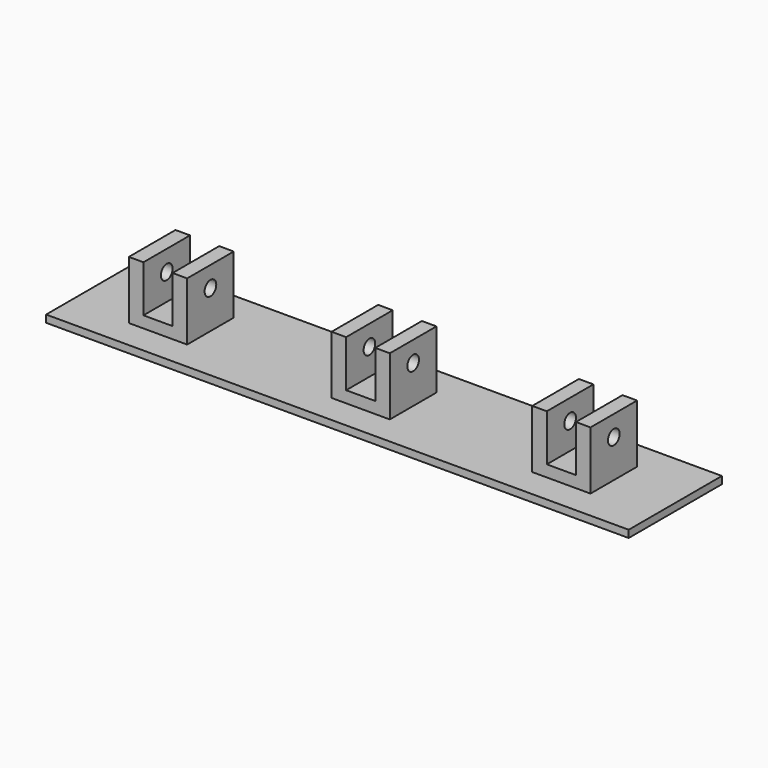
from build123d import *

# Parameters (mm, degrees)
F0_W     = 254
F0_H     = 50.8
F1_DEPTH = 3.175
F2_W     = 25.4
F2_H     = 25.4
F3_DEPTH = 25.4
F4_W     = 12.7
F4_H     = 20.3732
F4_H_2   = 40.7416
F5_W     = 12.7
F5_H     = 20.3708
F6_DEPTH = 38.1
F7_R     = 3.175
F8_DEPTH = 227.187036


with BuildPart() as f1:
    # F0 (on Top) → F1 (new body)
    with BuildSketch(Plane.XY):
        Rectangle(F0_W, F0_H)
    extrude(amount=F1_DEPTH)

    # F2 (on face) → F3 (join)
    with BuildSketch(Plane.XY.offset(3.175)):
        with Locations((-88.369727, 0)):
            Rectangle(F2_W, F2_H)
        Rectangle(F2_W, F2_H)
        with Locations((87.486036, 0)):
            Rectangle(F2_W, F2_H)
    extrude(amount=F3_DEPTH)

    # F4 (on face) + F5 (on face) → F6 (cut)
    with BuildSketch(Plane.XZ.offset(12.7)):
        with Locations((-88.369727, 38.7616)):
            Rectangle(F4_W, F4_H)
        with Locations((-88.369727, 18.3884)):
            Rectangle(F4_W, F4_H)
        with Locations((0, 28.575)):
            Rectangle(F4_W, F4_H_2)
    with BuildSketch(Plane.XZ.offset(12.7)):
        with Locations((87.486036, 38.7604)):
            Rectangle(F5_W, F5_H)
        with Locations((87.486036, 18.3896)):
            Rectangle(F5_W, F5_H)
    extrude(amount=-F6_DEPTH, mode=Mode.SUBTRACT)

    # F7 (on face) → F8 (cut, through all)
    with BuildSketch(Plane.YZ.offset(100.186036)):
        with Locations((0, 19.681644)):
            Circle(F7_R)
    extrude(amount=-F8_DEPTH, mode=Mode.SUBTRACT)


solid = f1.part
